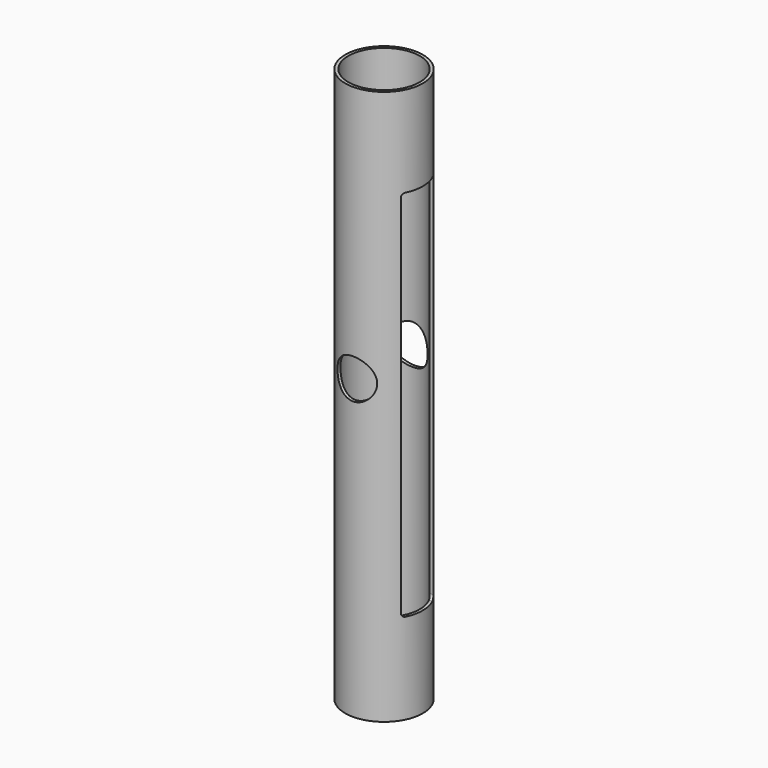
from build123d import *

# Parameters (mm, degrees)
F0_R          = 21
F0_R_2        = 19.3
F1_DEPTH      = 150
F3_DEPTH      = 21.001
F4_R          = 10.75
F5_DEPTH      = 21.0010001
F5_DEPTH_BACK = 21.0010001


with BuildPart() as f1:
    # F0 (on Top) → F1 (new body, symmetric)
    with BuildSketch(Plane.XY):
        Circle(F0_R)
        Circle(F0_R_2, mode=Mode.SUBTRACT)
    extrude(amount=F1_DEPTH, both=True)

    # F2 (on Right) → F3 (cut, through all)
    with BuildSketch(Plane.YZ):
        with BuildLine():
            Line((-9, -101), (9, -101))
            ThreePointArc((9, -101), (10.4142135624, -100.4142135624), (11, -99))
            Line((11, -99), (11, 99))
            ThreePointArc((11, 99), (10.4142135624, 100.4142135624), (9, 101))
            Line((9, 101), (-9, 101))
            ThreePointArc((-9, 101), (-10.4142135624, 100.4142135624), (-11, 99))
            Line((-11, 99), (-11, -99))
            ThreePointArc((-11, -99), (-10.4142135624, -100.4142135624), (-9, -101))
        make_face()
    extrude(amount=F3_DEPTH, mode=Mode.SUBTRACT)

    # F4 (on Front) → F5 (cut, two sides)
    with BuildSketch(Plane.XZ) as f5_sk:
        with Locations((0, 11)):
            Circle(F4_R)
    extrude(amount=-F5_DEPTH, mode=Mode.SUBTRACT)
    extrude(f5_sk.sketch, amount=F5_DEPTH_BACK, mode=Mode.SUBTRACT)


solid = f1.part
